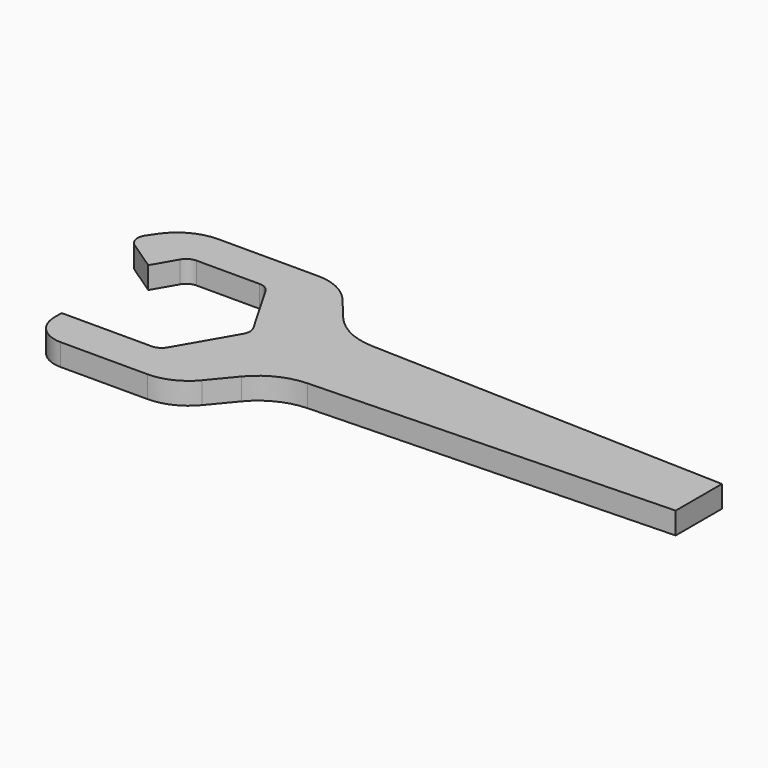
from build123d import *

# Parameters (mm, degrees)
F1_DEPTH = 4.318


with BuildPart() as f1:
    # F0 (on Top) → F1 (new body)
    with BuildSketch(Plane.XY):
        with BuildLine():
            ThreePointArc((-8.411993, 12.03), (-7.482289, 12.959705), (-6.212289, 13.3))
            Line((-6.212289, 13.3), (6.212289, 13.3))
            ThreePointArc((6.212289, 13.3), (7.482289, 12.959705), (8.411993, 12.03))
            Line((8.411993, 12.03), (14.624282, 1.27))
            ThreePointArc((14.624282, 1.27), (14.964578, 0), (14.624282, -1.27))
            Line((14.624282, -1.27), (8.411993, -12.03))
            ThreePointArc((8.411993, -12.03), (7.482289, -12.959705), (6.212289, -13.3))
            Line((6.212289, -13.3), (-11.488759, -13.3))
            Line((-11.488759, -13.3), (-11.488759, -15.084195))
            ThreePointArc((-11.488759, -15.084195), (-9.762792, -19.251046), (-5.595941, -20.977013))
            Line((-5.595941, -20.977013), (11.52876, -20.977013))
            ThreePointArc((11.52876, -20.977013), (15.848551, -20.012936), (19.348537, -17.303667))
            Line((19.348537, -17.303667), (23.302689, -12.536867))
            ThreePointArc((23.302689, -12.536867), (27.49485, -9.23795), (32.671966, -7.951659))
            Line((32.671966, -7.951659), (103.38208, -5.693105))
            Line((103.38208, -5.693105), (103.38208, 0))
            Line((103.38208, 0), (103.38208, 5.693105))
            Line((103.38208, 5.693105), (32.671966, 7.951659))
            ThreePointArc((32.671966, 7.951659), (27.49485, 9.23795), (23.302689, 12.536867))
            Line((23.302689, 12.536867), (19.348537, 17.303667))
            ThreePointArc((19.348537, 17.303667), (15.848551, 20.012936), (11.52876, 20.977013))
            Line((11.52876, 20.977013), (-8.066516, 20.977013))
            ThreePointArc((-8.066516, 20.977013), (-12.83266, 19.78972), (-16.484866, 16.505333))
            Line((-16.484866, 16.505333), (-17.552267, 14.925647))
            ThreePointArc((-17.552267, 14.925647), (-17.94141, 13.020962), (-16.86976, 11.39898))
            Line((-16.86976, 11.39898), (-11.047632, 7.46494))
            Line((-11.047632, 7.46494), (-8.411993, 12.03))
        make_face()
    extrude(amount=F1_DEPTH)


solid = f1.part
